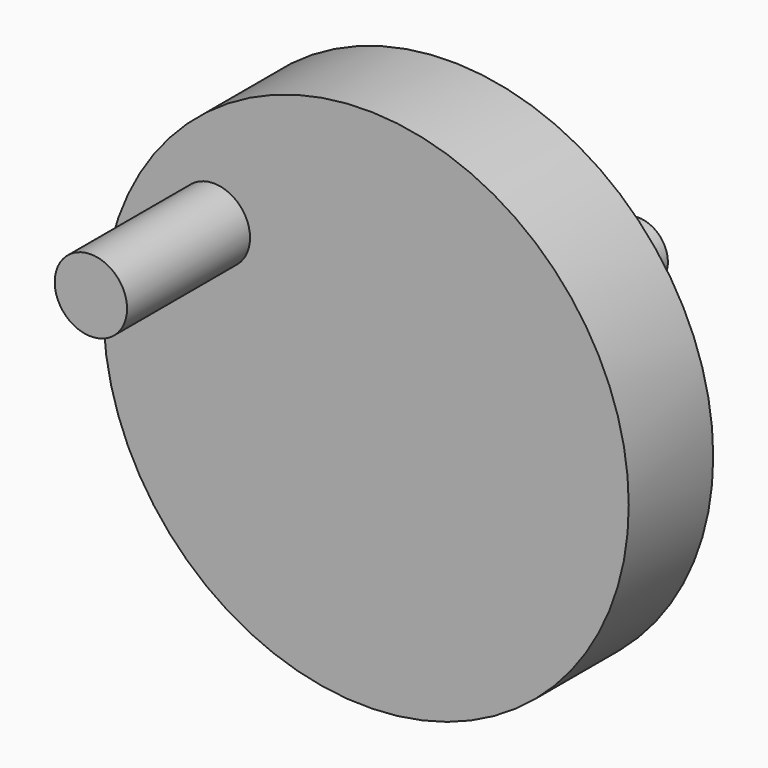
from build123d import *

# Parameters (mm, degrees)
F0_R     = 7.823316
F1_DEPTH = 33.24154
F0_R_2   = 56.801677
F2_DEPTH = 22.83116
F3_D     = 12.7508
F4_DEPTH = 22.80916
F5_R     = 6.418936
F6_DEPTH = 73.55627


with BuildPart() as f1:
    # F0 (on Front) → F1 (new body)
    with BuildSketch(Plane.XZ):
        with Locations((-32.93233, 24.280986)):
            Circle(F0_R)
    extrude(amount=F1_DEPTH)


with BuildPart() as f2:
    # F0 (on Front) → F2 (new body)
    with BuildSketch(Plane.XZ):
        Circle(F0_R_2)
        with Locations((-32.93233, 24.280986)):
            Circle(F0_R, mode=Mode.SUBTRACT)
    extrude(amount=-F2_DEPTH)

    # F3 (through all)
    with Locations(Plane.XZ):
        with Locations((0, 0)):
            Hole(F3_D / 2)

    # F5 (on Front) → F6 (join)
    with BuildSketch(Plane.XZ):
        Circle(F5_R)
    extrude(amount=-F6_DEPTH)


with BuildPart() as f4:
    # F0 (on Front) → F4 (new body)
    with BuildSketch(Plane.XZ):
        with Locations((-32.93233, 24.280986)):
            Circle(F0_R)
    extrude(amount=-F4_DEPTH)


solid = Compound([f1.part, f2.part, f4.part])
